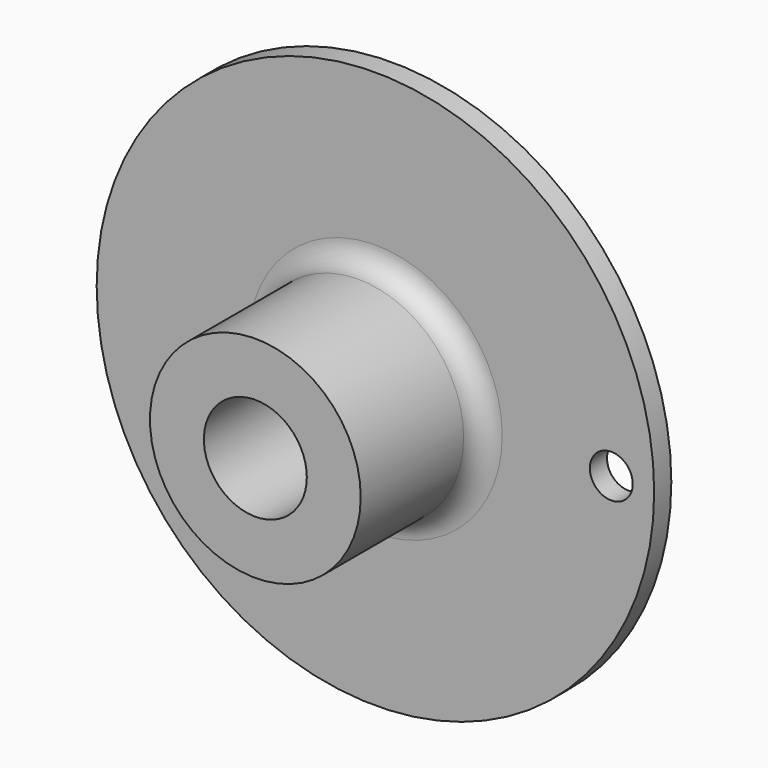
from build123d import *

# Parameters (mm, degrees)
F0_R     = 41.275
F1_DEPTH = 3.175
F2_R     = 15.603275
F3_DEPTH = 25.4
F4_R     = 7.62
F5_DEPTH = 25.4
F6_R     = 3.175
F8_R     = 3.175
F9_DEPTH = 25.4


with BuildPart() as f1:
    # F0 (on Front) → F1 (new body)
    with BuildSketch(Plane.XZ):
        Circle(F0_R)
    extrude(amount=F1_DEPTH)

    # F2 (on Front) → F3 (join)
    with BuildSketch(Plane.XZ):
        Circle(F2_R)
    extrude(amount=F3_DEPTH)

    # F4 (on Front) → F5 (cut)
    with BuildSketch(Plane.XZ):
        Circle(F4_R)
    extrude(amount=F5_DEPTH, mode=Mode.SUBTRACT)

    # F6
    f6_edges = [f1.edges().sort_by_distance(p)[0] for p in [
        (-15.603275, -3.175, 0),
    ]]
    fillet(f6_edges, radius=F6_R)

    # F8 (on face) → F9 (cut)
    with BuildSketch(Plane.XZ.offset(3.175)):
        with Locations((34.925, 0)):
            Circle(F8_R)
    extrude(amount=-F9_DEPTH, mode=Mode.SUBTRACT)


solid = f1.part
